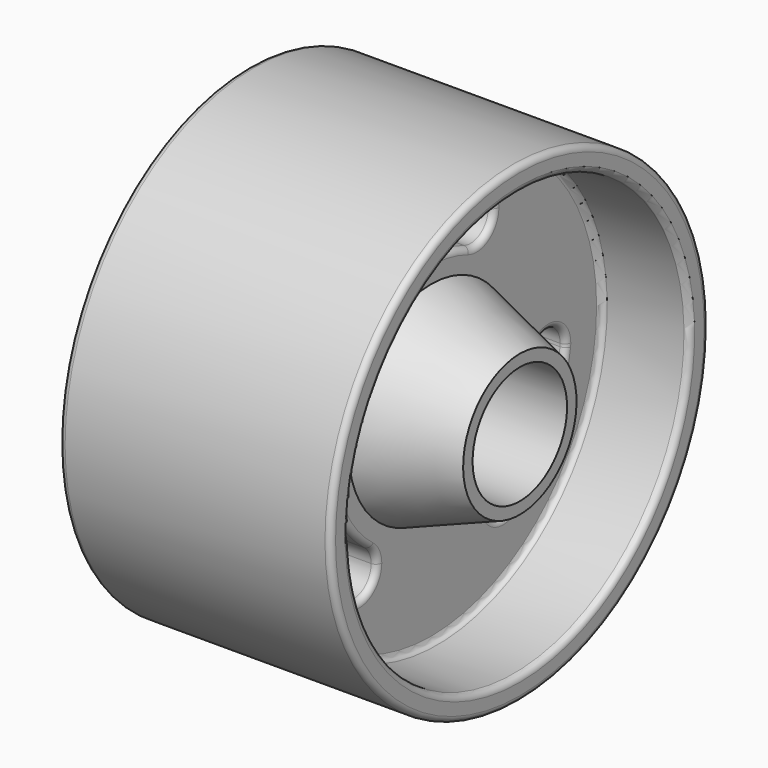
from build123d import *

# Parameters (mm, degrees)
F3_DEPTH = 62.001
F4_R     = 2


with BuildPart() as f1:
    # F0 (on Front) → F1 (revolve)
    with BuildSketch(Plane.XZ):
        Polygon((0, 24), (0, 20), (92, 20), (92, 24), (62, 35), (62, 72), (92, 72), (92, 80), (0, 80), (0, 72), (30, 72), (30, 35), align=None)
    revolve(axis=Axis((46, 0, 0), (1, 0, 0)))

    # F2 (on face) → F3 (cut, through all)
    with BuildSketch(Plane.YZ.offset(62)):
        with BuildLine():
            ThreePointArc((-16.2640458755, 39.2648801317), (-12.898149526, 42.0271998779), (-11.6341716183, 46.1939766256))
            ThreePointArc((-11.6341716183, 46.1939766256), (-14.9673948706, 52.4299987178), (-22.004297361, 53.1230731194))
            ThreePointArc((-22.004297361, 53.1230731194), (-26.0632681121, 43.3238508828), (-16.2640458755, 39.2648801317))
        make_face()
        with BuildLine():
            ThreePointArc((-22.004297361, 53.1230731194), (-14.9673948706, 52.4299987178), (-11.6341716183, 46.1939766256))
            ThreePointArc((-11.6341716183, 46.1939766256), (-12.898149526, 42.0271998779), (-16.2640458755, 39.2648801317))
            ThreePointArc((-16.2640458755, 39.2648801317), (0, 42.5), (16.2640458755, 39.2648801317))
            ThreePointArc((16.2640458755, 39.2648801317), (12.2050751244, 49.0641023683), (22.004297361, 53.1230731194))
            ThreePointArc((22.004297361, 53.1230731194), (0, 57.5), (-22.004297361, 53.1230731194))
        make_face()
        with BuildLine():
            ThreePointArc((26.6341716183, 46.1939766256), (25.3701937105, 50.3607533732), (22.004297361, 53.1230731194))
            ThreePointArc((22.004297361, 53.1230731194), (12.2050751244, 49.0641023683), (16.2640458755, 39.2648801317))
            ThreePointArc((16.2640458755, 39.2648801317), (23.3009483659, 39.9579545333), (26.6341716183, 46.1939766256))
        make_face()
        with BuildLine():
            ThreePointArc((42.1364065945, -5.5473632749), (48.5932967144, -13.9621460828), (57.0080795381, -7.5052559834))
            ThreePointArc((57.0080795381, -7.5052559834), (57.0561849953, -7.0168330454), (57.0722430687, -6.526309611))
            ThreePointArc((57.0722430687, -6.526309611), (50.0627664848, 0.9576323168), (42.1364065945, -5.5473632749))
        make_face()
        with BuildLine():
            ThreePointArc((35.0037819717, -45.6178172174), (49.7964606732, -28.7500000769), (57.0080795381, -7.5052559834))
            ThreePointArc((57.0080795381, -7.5052559834), (48.5932967144, -13.9621460828), (42.1364065945, -5.5473632749))
            ThreePointArc((42.1364065945, -5.5473632749), (36.8060796093, -21.2500000893), (25.8723606537, -33.7175170231))
            ThreePointArc((25.8723606537, -33.7175170231), (33.7552365823, -32.941121431), (37.9380714504, -39.6676670146))
            ThreePointArc((37.9380714504, -39.6676670146), (37.1646169572, -42.9848323022), (35.0037819717, -45.6178172174))
        make_face()
        with BuildLine():
            ThreePointArc((25.8723606537, -33.7175170231), (24.4879213533, -44.2333776735), (35.0037819717, -45.6178172174))
            ThreePointArc((35.0037819717, -45.6178172174), (37.1646169572, -42.9848323022), (37.9380714504, -39.6676670146))
            ThreePointArc((37.9380714504, -39.6676670146), (33.7552365823, -32.941121431), (25.8723606537, -33.7175170231))
        make_face()
        with BuildLine():
            ThreePointArc((-42.1364066146, -5.5473631221), (-50.551189738, 0.9095268193), (-57.0080794753, -7.5052564607))
            ThreePointArc((-57.0080794753, -7.5052564607), (-49.0817193941, -14.0102515218), (-42.0722430687, -6.526309611))
            ThreePointArc((-42.0722430687, -6.526309611), (-42.088301146, -6.035786118), (-42.1364066146, -5.5473631221))
        make_face()
        with BuildLine():
            ThreePointArc((-42.0722430687, -6.526309611), (-49.0817193941, -14.0102515218), (-57.0080794753, -7.5052564607))
            ThreePointArc((-57.0080794753, -7.5052564607), (-49.7964605605, -28.7500002721), (-35.003781996, -45.6178171987))
            ThreePointArc((-35.003781996, -45.6178171987), (-36.3882215981, -35.1019564215), (-25.8723608098, -33.7175169034))
            ThreePointArc((-25.8723608098, -33.7175169034), (-36.806079697, -21.2499999374), (-42.1364066146, -5.5473631221))
            ThreePointArc((-42.1364066146, -5.5473631221), (-42.088301146, -6.035786118), (-42.0722430687, -6.526309611))
        make_face()
        with BuildLine():
            ThreePointArc((-25.8723608098, -33.7175169034), (-36.3882215981, -35.1019564215), (-35.003781996, -45.6178171987))
            ThreePointArc((-35.003781996, -45.6178171987), (-27.1209061766, -46.3942125281), (-22.9380714504, -39.6676670146))
            ThreePointArc((-22.9380714504, -39.6676670146), (-23.7115259104, -36.3505017945), (-25.8723608098, -33.7175169034))
        make_face()
    extrude(amount=-F3_DEPTH, mode=Mode.SUBTRACT)

    # F4
    f4_edges = [f1.edges().sort_by_distance(p)[0] for p in [
        (92, 0, -80),
        (92, 0, -72),
        (0, 0, -80),
        (0, 0, -72),
        (30, 0, -72),
        (62, 0, -72),
        (62, 0, 57.5),
        (62, 50.551189, 0.909527),
        (62, -50.55119, 0.909527),
        (30, 26.063268, 43.323851),
        (30, 50.551189, 0.909527),
        (30, -50.55119, 0.909527),
    ]]
    fillet(f4_edges, radius=F4_R)


solid = f1.part
